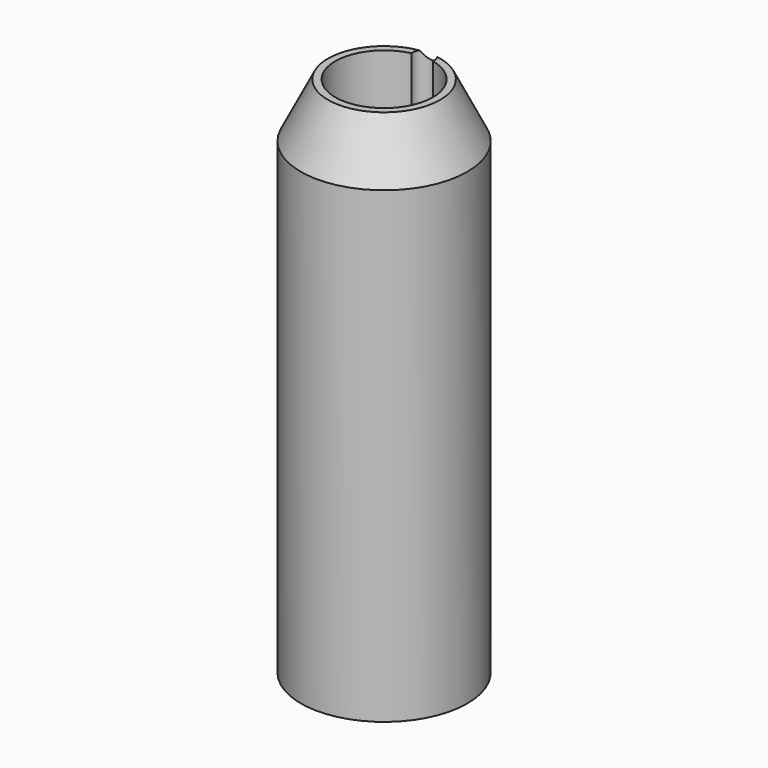
from build123d import *

# Parameters (mm, degrees)
F0_R     = 15.3
F1_DEPTH = 96
F3_D     = 17.95
F3_DEPTH = 65
F3_TIP   = 5.3927240558
F4_SIZE2 = 10
F4_SIZE  = 5
F6_D     = 4
F6_DEPTH = 1
F6_START = 66.2017213
F6_TIP   = 1.2017212381
F8_D     = 17.95
F8_DEPTH = 5
F8_TIP   = 5.3927240558


with BuildPart() as f1:
    # F0 (on Top) → F1 (new body)
    with BuildSketch(Plane.XY):
        Circle(F0_R)
    extrude(amount=F1_DEPTH)

    # F3
    with Locations(Plane.XY.offset(96)):
        with Locations((0, 0)):
            Hole(F3_D / 2, depth=F3_DEPTH)
            with Locations((0, 0, -(F3_DEPTH + F3_TIP / 2))):  # 118° drill point
                Cone(0, F3_D / 2, F3_TIP, mode=Mode.SUBTRACT)

    # F4
    f4_edges = [f1.edges().sort_by_distance(p)[0] for p in [
        (-15.3, 0, 96),
    ]]
    f4_side = f1.faces().sort_by_distance((-14.867251, 0, 96))[0]
    chamfer(f4_edges, length=F4_SIZE, length2=F4_SIZE2, reference=f4_side)

    # F6
    # its depths count from where the whole tool has entered the part; down to there all is cleared
    with Locations(Plane.XY.offset(96)):
        with Locations((0, 8.975)):
            Hole(F6_D / 2, depth=F6_START)
    with Locations(Plane.XY.offset(96).offset(-F6_START)):
        with Locations((0, 8.975)):
            Hole(F6_D / 2, depth=F6_DEPTH)
            with Locations((0, 0, -(F6_DEPTH + F6_TIP / 2))):  # 118° drill point
                Cone(0, F6_D / 2, F6_TIP, mode=Mode.SUBTRACT)

    # F8
    with Locations(Plane(origin=(0, 0, 0), x_dir=(1, 0, 0), z_dir=(0, 0, -1))):
        with Locations((0, 0)):
            Hole(F8_D / 2, depth=F8_DEPTH)
            with Locations((0, 0, -(F8_DEPTH + F8_TIP / 2))):  # 118° drill point
                Cone(0, F8_D / 2, F8_TIP, mode=Mode.SUBTRACT)


solid = f1.part
